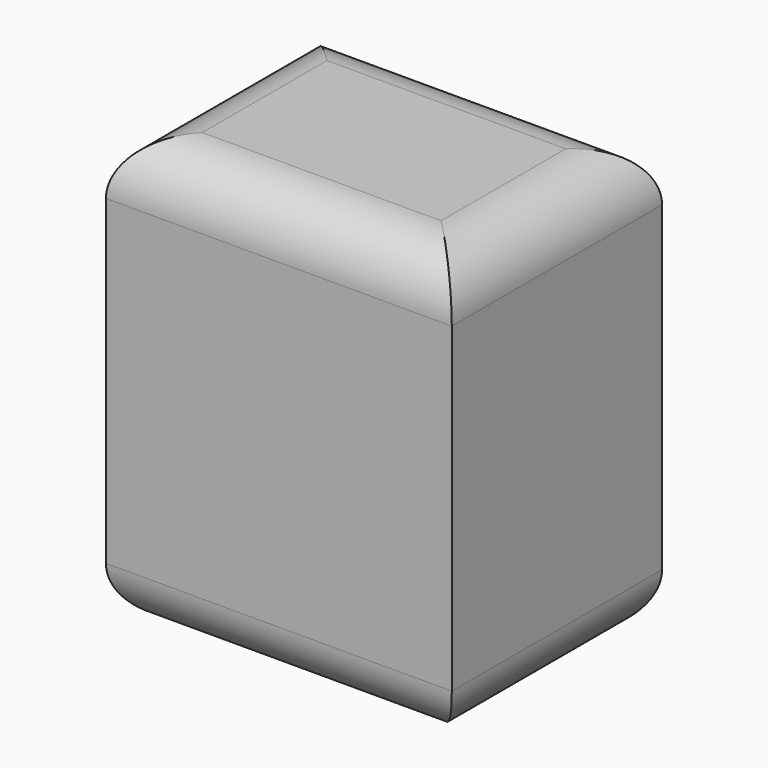
from build123d import *

# Parameters (mm, degrees)
F0_W     = 82.026482
F0_H     = 62.353476
F1_DEPTH = 50.8
F2_R     = 12.7


with BuildPart() as f1:
    # F0 (on Top) → F1 (new body)
    with BuildSketch(Plane.XY):
        Rectangle(F0_W, F0_H)
    extrude(amount=F1_DEPTH)

    # F2
    f2_edges = [f1.edges().sort_by_distance(p)[0] for p in [
        (41.013241, 0, 50.8),
        (0, 31.176738, 50.8),
        (-41.013241, 0, 50.8),
        (0, -31.176738, 50.8),
    ]]
    fillet(f2_edges, radius=F2_R)

    # F3: F1 across plane


with BuildPart() as f1_1:
    add(f1.part)
    add(f1.part.mirror(Plane.XY))


solid = f1_1.part
